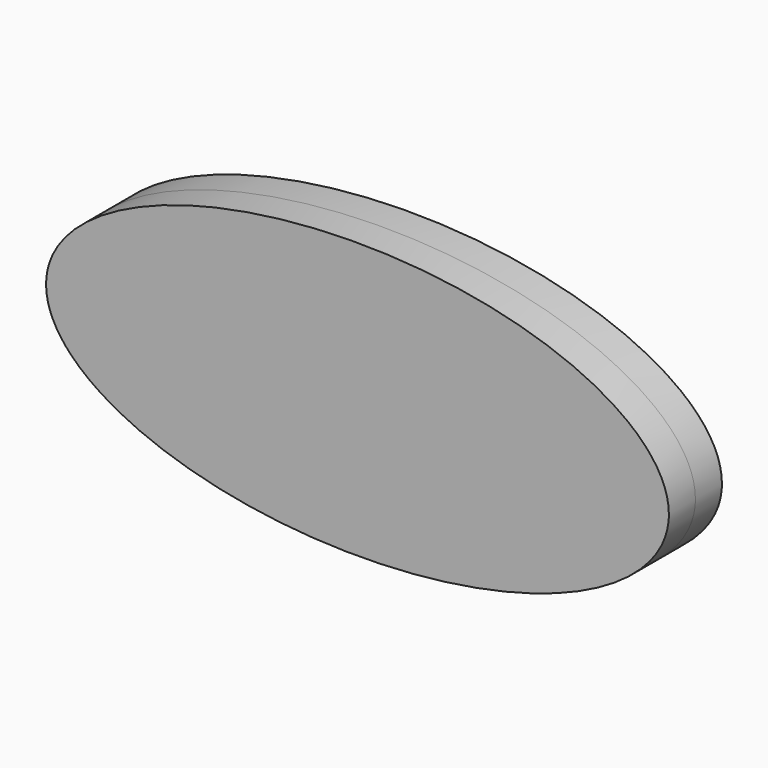
from build123d import *

# Parameters (mm, degrees)
F1_DEPTH = 6.35
F2_DEPTH = 6.35


with BuildPart() as f1:
    # F0 (on Front) → F1 (new body)
    with BuildSketch(Plane.XZ):
        with BuildLine():
            add(Edge.make_bspline(
                [(59.6286095679, -11.9104459882), (59.6286095679, 33.7968172035), (-29.8143047839, 10.9431856076), (-119.2572191358, -11.9104459882), (-29.8143047839, -34.764077584), (59.6286095679, -57.6177091798), (59.6286095679, -11.9104459882)],
                knots=[0, 0, 0, 2.0943951024, 2.0943951024, 4.1887902048, 4.1887902048, 6.2831853072, 6.2831853072, 6.2831853072], degree=2, weights=[1, 0.5, 1, 0.5, 1, 0.5, 1]))
        make_face()
    extrude(amount=F1_DEPTH)

    # F1_face (on face) + F0 (on Front) → F2 (join)
    with BuildSketch(Plane(origin=(0.3166698599, -6.35, -11.9104459882), x_dir=(1, 0, 0), z_dir=(0, -1, 0))):
        with BuildLine():
            add(Edge.make_bspline(
                [(59.3119397079, 0), (59.3119397079, 45.7072631916), (-30.1309746439, 22.8536315958), (-119.5738889957, 0), (-30.1309746439, -22.8536315958), (59.3119397079, -45.7072631916), (59.3119397079, 0)],
                knots=[0, 0, 0, 2.0943951024, 2.0943951024, 4.1887902048, 4.1887902048, 6.2831853072, 6.2831853072, 6.2831853072], degree=2, weights=[1, 0.5, 1, 0.5, 1, 0.5, 1]))
        make_face()
    with BuildSketch(Plane.XZ):
        with BuildLine():
            add(Edge.make_bspline(
                [(59.6286095679, -11.9104459882), (59.6286095679, 33.7968172035), (-29.8143047839, 10.9431856076), (-119.2572191358, -11.9104459882), (-29.8143047839, -34.764077584), (59.6286095679, -57.6177091798), (59.6286095679, -11.9104459882)],
                knots=[0, 0, 0, 2.0943951024, 2.0943951024, 4.1887902048, 4.1887902048, 6.2831853072, 6.2831853072, 6.2831853072], degree=2, weights=[1, 0.5, 1, 0.5, 1, 0.5, 1]))
        make_face()
    extrude(amount=-F2_DEPTH)


solid = f1.part
